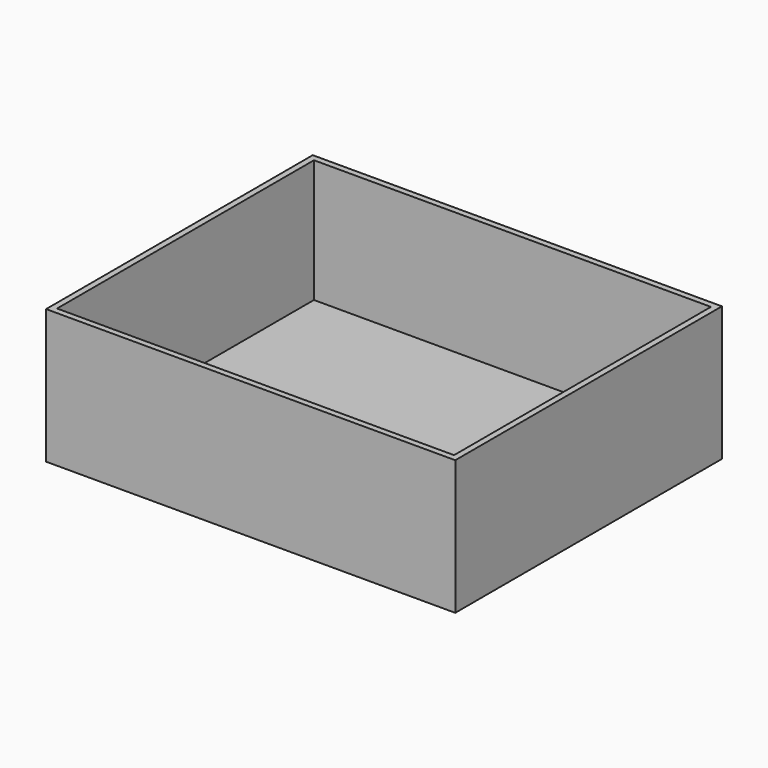
from build123d import *

# Parameters (mm, degrees)
F0_W     = 120.775796473
F0_H     = 92.5770886242
F1_DEPTH = 22
F2_DEPTH = 53.776
F3_DEPTH = 38
F5_W     = 64.999796473
F5_H     = 52.5770886242
F6_DEPTH = 20.1452


with BuildPart() as f1:
    # F0 (on Top) → F1 (new body)
    with BuildSketch(Plane.XY):
        with Locations((-0.1175701618, 19.4224845618)):
            Rectangle(F0_W, F0_H)
    extrude(amount=F1_DEPTH)

    # F2 (cut): a face of the model
    f2_faces = [f1.faces().sort_by_distance(p)[0] for p in [
        (-60.5054683983, 19.4224845618, 11),
    ]]
    extrude(f2_faces, amount=-F2_DEPTH, mode=Mode.SUBTRACT)

    # F3 (cut): a face of the model
    f3_faces = [f1.faces().sort_by_distance(p)[0] for p in [
        (26.7704298382, 65.7110288739, 11),
    ]]
    extrude(f3_faces, amount=-F3_DEPTH, mode=Mode.SUBTRACT)

    # F5 (on face) → F6 (cut)
    with BuildSketch(Plane.XY.offset(22)):
        with Locations((26.7704298382, 0.4224845618)):
            Rectangle(F5_W, F5_H)
    extrude(amount=-F6_DEPTH, mode=Mode.SUBTRACT)


solid = f1.part
